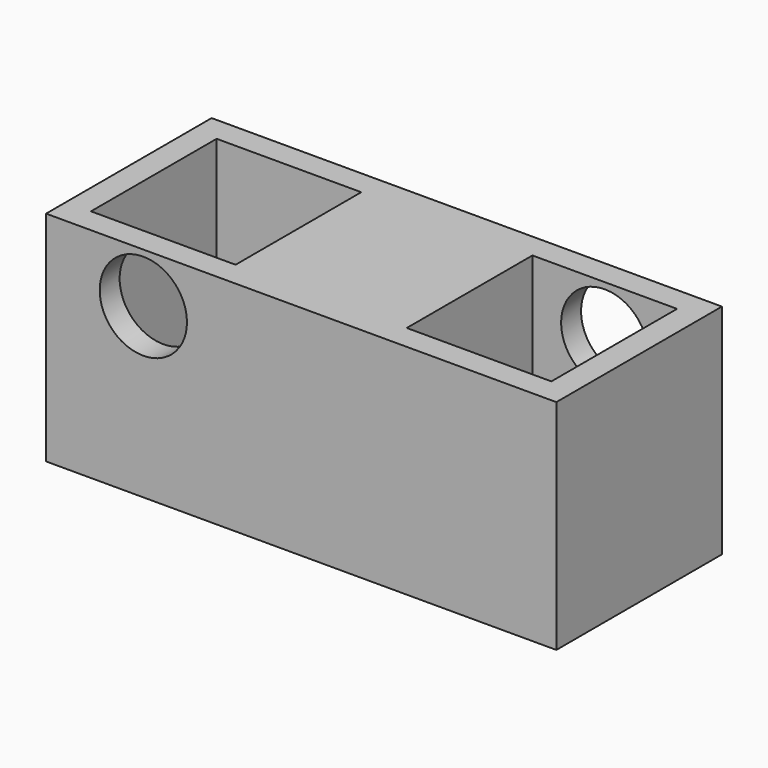
from build123d import *

# Parameters (mm, degrees)
F0_W      = 40.93
F0_H      = 16.6
F0_W_2    = 7.73
F0_H_2    = 7.73
F0_W_3    = 10.6
F0_H_3    = 10.6
F0_R      = 4
F0_W_4    = 6.33
F0_H_4    = 6.33
F1_DEPTH  = 2
F2_W      = 40.93
F2_H      = 16.6
F2_W_2    = 11.6
F2_H_2    = 12.6
F2_W_3    = 7.73
F2_H_3    = 7.73
F3_DEPTH  = 15
F4_W      = 40.93
F4_H      = 16.6
F4_W_2    = 11.6
F4_H_2    = 12.6
F4_W_3    = 7.73
F4_H_3    = 7.73
F5_DEPTH  = 0.5
F7_DEPTH  = 4
F8_R      = 3.5
F9_DEPTH  = 3
F10_R     = 3.5
F11_DEPTH = 3


with BuildPart() as f1:
    # F0 (on Top) → F1 (new body)
    with BuildSketch(Plane.XY):
        Rectangle(F0_W, F0_H)
        Polygon((-6.865, 6.3), (-6.865, 6.865), (6.865, 6.865), (6.865, 6.3), (18.465, 6.3), (18.465, -6.3), (6.865, -6.3), (6.865, -6.865), (-6.865, -6.865), (-6.865, -6.3), (-18.465, -6.3), (-18.465, 6.3), align=None, mode=Mode.SUBTRACT)
        Rectangle(F0_W, F0_H)
        Polygon((-6.865, 6.3), (-6.865, 6.865), (6.865, 6.865), (6.865, 6.3), (18.465, 6.3), (18.465, -6.3), (6.865, -6.3), (6.865, -6.865), (-6.865, -6.865), (-6.865, -6.3), (-18.465, -6.3), (-18.465, 6.3), align=None, mode=Mode.SUBTRACT)
        Polygon((6.865, 6.865), (-6.865, 6.865), (-6.865, 6.3), (-6.865, 5.3), (-6.865, -5.3), (-6.865, -6.3), (-6.865, -6.865), (6.865, -6.865), (6.865, -6.3), (6.865, -5.3), (6.865, 5.3), (6.865, 6.3), align=None)
        Rectangle(F0_W_2, F0_H_2, mode=Mode.SUBTRACT)
        with Locations((12.165, 0)):
            Rectangle(F0_W_3, F0_H_3)
        with Locations((12.165, 0)):
            Circle(F0_R, mode=Mode.SUBTRACT)
        with Locations((-12.165, 0)):
            Rectangle(F0_W_3, F0_H_3)
        with Locations((-12.165, 0)):
            Circle(F0_R, mode=Mode.SUBTRACT)
        Rectangle(F0_W_2, F0_H_2)
        Rectangle(F0_W_4, F0_H_4, mode=Mode.SUBTRACT)
        Rectangle(F0_W_4, F0_H_4)
        Polygon((-6.865, 5.3), (-6.865, 6.3), (-18.465, 6.3), (-18.465, -6.3), (-6.865, -6.3), (-6.865, -5.3), (-17.465, -5.3), (-17.465, 5.3), align=None)
        Polygon((18.465, 6.3), (6.865, 6.3), (6.865, 5.3), (17.465, 5.3), (17.465, -5.3), (6.865, -5.3), (6.865, -6.3), (18.465, -6.3), align=None)
    extrude(amount=F1_DEPTH)

    # F2 (on face) → F3 (join)
    with BuildSketch(Plane.XY.offset(2)):
        Rectangle(F2_W, F2_H)
        with Locations((-12.665, 0)):
            Rectangle(F2_W_2, F2_H_2, mode=Mode.SUBTRACT)
        Rectangle(F2_W_3, F2_H_3, mode=Mode.SUBTRACT)
        with Locations((12.665, 0)):
            Rectangle(F2_W_2, F2_H_2, mode=Mode.SUBTRACT)
    extrude(amount=F3_DEPTH)

    # F4 (on face) → F5 (join)
    with BuildSketch(Plane.XY.offset(17)):
        Rectangle(F4_W, F4_H)
        with Locations((-12.665, 0)):
            Rectangle(F4_W_2, F4_H_2, mode=Mode.SUBTRACT)
        Rectangle(F4_W_3, F4_H_3, mode=Mode.SUBTRACT)
        with Locations((12.665, 0)):
            Rectangle(F4_W_2, F4_H_2, mode=Mode.SUBTRACT)
        Rectangle(F4_W_3, F4_H_3)
    extrude(amount=F5_DEPTH)

    # F6 (on face) → F7 (cut)
    with BuildSketch(Plane.YZ.offset(6.865)):
        Polygon((0, 9.4), (-3.4, 9.4), (-3.4, 2.6), (3.4, 2.6), (3.4, 9.4), align=None)
    extrude(amount=-F7_DEPTH, mode=Mode.SUBTRACT)

    # F8 (on face) → F9 (cut)
    with BuildSketch(Plane(origin=(0, 8.3, 0), x_dir=(-1, 0, 0), z_dir=(0, 1, 0))):
        with Locations((-12.665, 13.5)):
            Circle(F8_R)
    extrude(amount=-F9_DEPTH, mode=Mode.SUBTRACT)

    # F10 (on face) → F11 (cut)
    with BuildSketch(Plane.XZ.offset(8.3)):
        with Locations((-12.665, 13.5)):
            Circle(F10_R)
    extrude(amount=-F11_DEPTH, mode=Mode.SUBTRACT)


solid = f1.part
